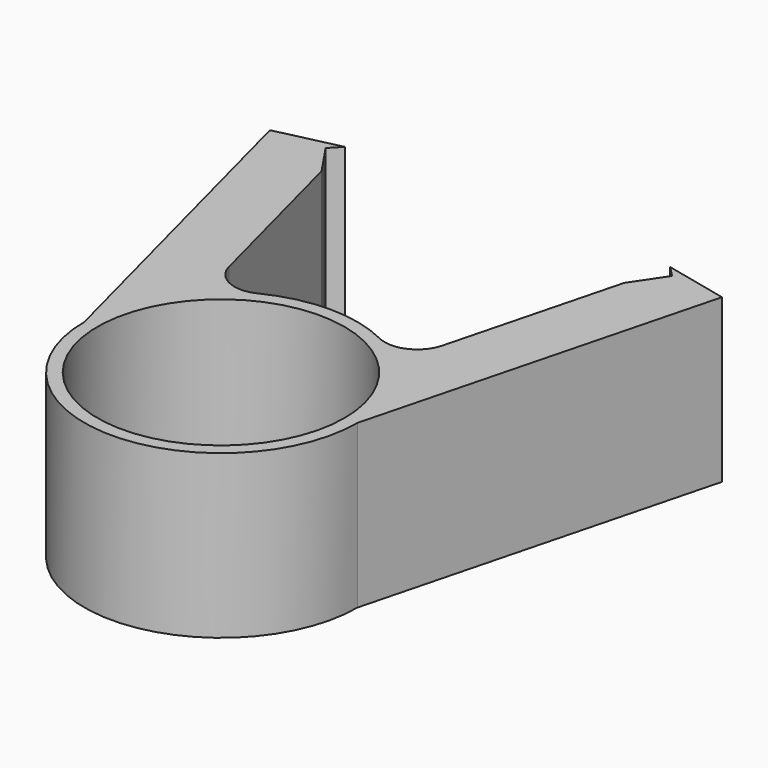
from build123d import *

# Parameters (mm, degrees)
F0_R     = 19
F1_DEPTH = 12.5
F2_R     = 5


with BuildPart() as f1:
    # F0 (on Top) → F1 (new body, symmetric)
    with BuildSketch(Plane.XY):
        with BuildLine():
            Line((-34.749801, 52.841643), (-21, 0))
            ThreePointArc((-21, 0), (0, -21), (21, 0))
            Line((21, 0), (34.749801, 52.841643))
            Line((34.749801, 52.841643), (32.314748, 53.410165))
            Line((32.314748, 53.410165), (25, 55.08291))
            Line((25, 55.08291), (26.631338, 53.410165))
            Line((26.631338, 53.410165), (23.264607, 48.413649))
            Line((23.264607, 48.413649), (14.595746, 15.098484))
            ThreePointArc((14.595746, 15.098484), (0, 21), (-14.595746, 15.098484))
            Line((-14.595746, 15.098484), (-23.264607, 48.413649))
            Line((-23.264607, 48.413649), (-26.631338, 53.410165))
            Line((-26.631338, 53.410165), (-25, 55.08291))
            Line((-25, 55.08291), (-32.314748, 53.410165))
            Line((-32.314748, 53.410165), (-34.749801, 52.841643))
        make_face()
        Circle(F0_R, mode=Mode.SUBTRACT)
    extrude(amount=F1_DEPTH, both=True)

    # F2
    f2_edges = [f1.edges().sort_by_distance(p)[0] for p in [
        (-14.595746, 15.098484, 0),
        (14.595746, 15.098484, 0),
    ]]
    fillet(f2_edges, radius=F2_R)


solid = f1.part
